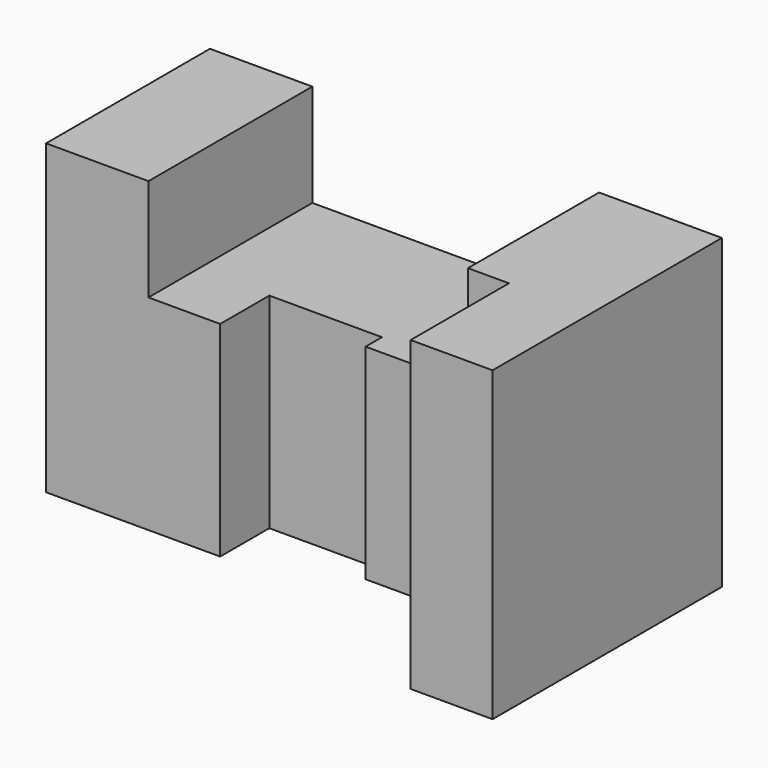
from build123d import *

# Parameters (mm, degrees)
F1_DEPTH = 70
F4_DEPTH = 75.001


with BuildPart() as f1:
    # F0 (on Front) → F1 (new body)
    with BuildSketch(Plane.XZ):
        Polygon((0, 75), (0, 0), (125, 0), (125, 75), (95, 75), (95, 50), (25, 50), (25, 75), align=None)
    extrude(amount=F1_DEPTH)

    # F3 (on face) → F4 (cut, through all)
    with BuildSketch(Plane.XY.offset(75)):
        Polygon((42.5, -50), (0, -50), (0, -70), (105, -70), (105, -40), (70, -40), (70, -35), (42.5, -35), align=None)
    extrude(amount=-F4_DEPTH, mode=Mode.SUBTRACT)


solid = f1.part
